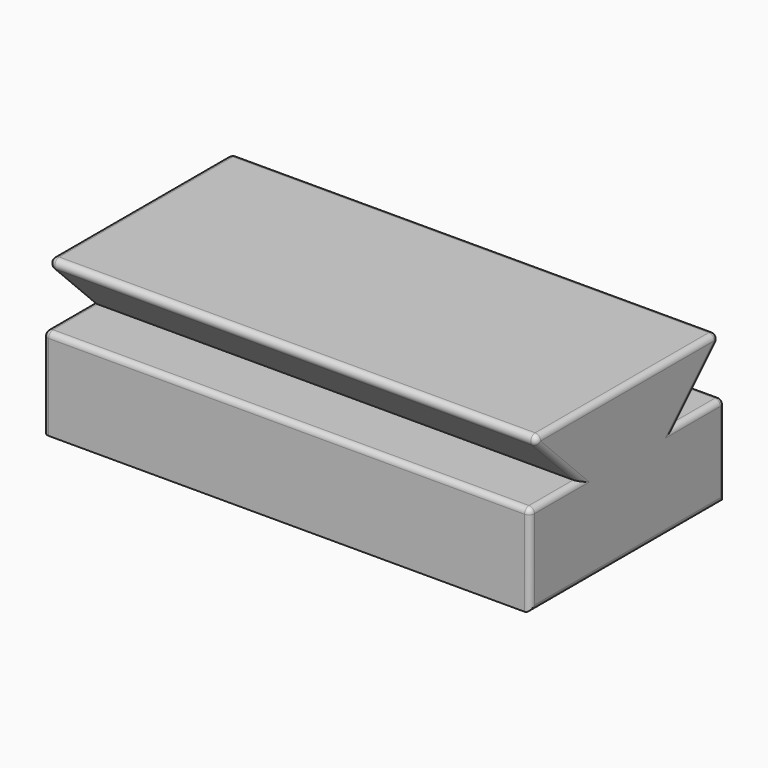
from build123d import *

# Parameters (mm, degrees)
F0_W     = 203.2
F0_H     = 101.6
F1_DEPTH = 63.5
F3_DEPTH = 203.2
F4_R     = 2.286


with BuildPart() as f1:
    # F0 (on Top) → F1 (new body)
    with BuildSketch(Plane.XY):
        with Locations((101.6, 50.8)):
            Rectangle(F0_W, F0_H)
    extrude(amount=F1_DEPTH)

    # F2 (on face) → F3 (cut, through all)
    with BuildSketch(Plane.YZ.offset(203.2)):
        Polygon((25.4, 38.1), (0, 63.5), (0, 38.1), align=None)
        Polygon((101.6, 38.1), (101.6, 63.5), (76.2, 38.1), align=None)
    extrude(amount=-F3_DEPTH, mode=Mode.SUBTRACT)

    # F4
    f4_edges = [f1.edges().sort_by_distance(p)[0] for p in [
        (203.2, 50.8, 63.5),
        (203.2, 12.7, 50.8),
        (203.2, 12.7, 38.1),
        (203.2, 0, 19.05),
        (203.2, 50.8, 0),
        (203.2, 101.6, 19.05),
        (203.2, 88.9, 38.1),
        (203.2, 88.9, 50.8),
        (101.6, 0, 38.1),
        (101.6, 0, 63.5),
        (0, 0, 19.05),
        (0, 12.7, 38.1),
        (0, 12.7, 50.8),
        (0, 50.8, 63.5),
        (0, 88.9, 50.8),
        (0, 88.9, 38.1),
        (0, 101.6, 19.05),
        (101.6, 101.6, 38.1),
        (101.6, 101.6, 63.5),
    ]]
    fillet(f4_edges, radius=F4_R)


solid = f1.part
